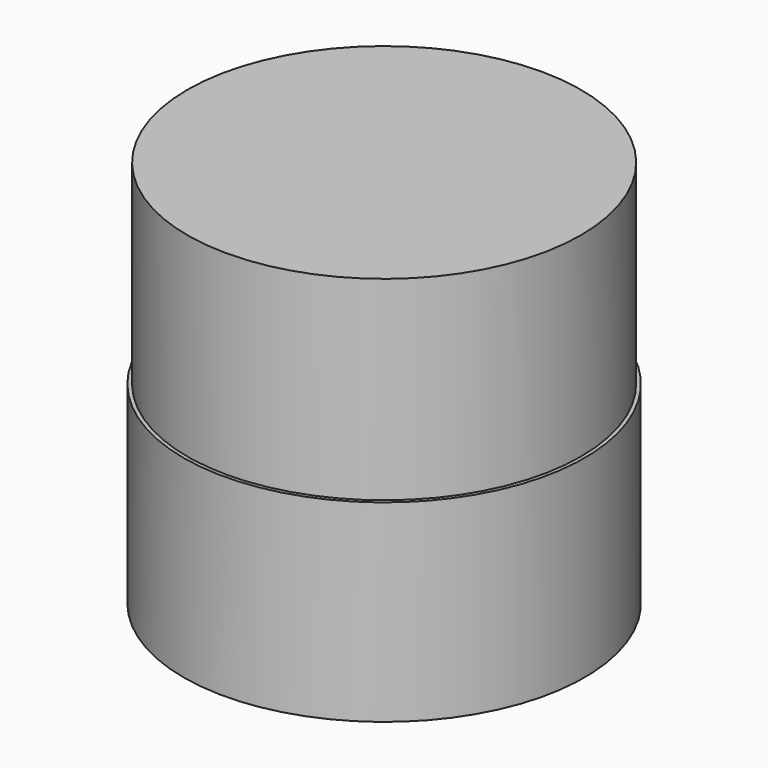
from build123d import *

# Parameters (mm, degrees)
F0_R     = 10.1
F1_DEPTH = 10
F2_R     = 3.75
F3_DEPTH = 10


with BuildPart() as f1:
    # F0 (on Top) → F1 (new body)
    with BuildSketch(Plane.XY):
        Circle(F0_R)
    extrude(amount=F1_DEPTH)

    # F2 (on Top) → F3 (join)
    with BuildSketch(Plane.XY):
        Circle(F2_R)
    extrude(amount=-F3_DEPTH)

    # F4 (on Front) → F5 (revolve)
    with BuildSketch(Plane.XZ):
        with BuildLine():
            Line((-3.9404258132, 0), (-10.2904258132, 0))
            Line((-10.2904258132, 0), (-10.2904258132, -9.9157679855))
            Line((-10.2904258132, -9.9157679855), (-9.0434306607, -9.9157679855))
            ThreePointArc((-9.0434306607, -9.9157679855), (-8.3038120471, -4.0254245121), (-3.9404258132, 0))
        make_face()
    revolve(axis=Axis((0, 0, -4.4246494012), (0, 0, -1)))


solid = f1.part
